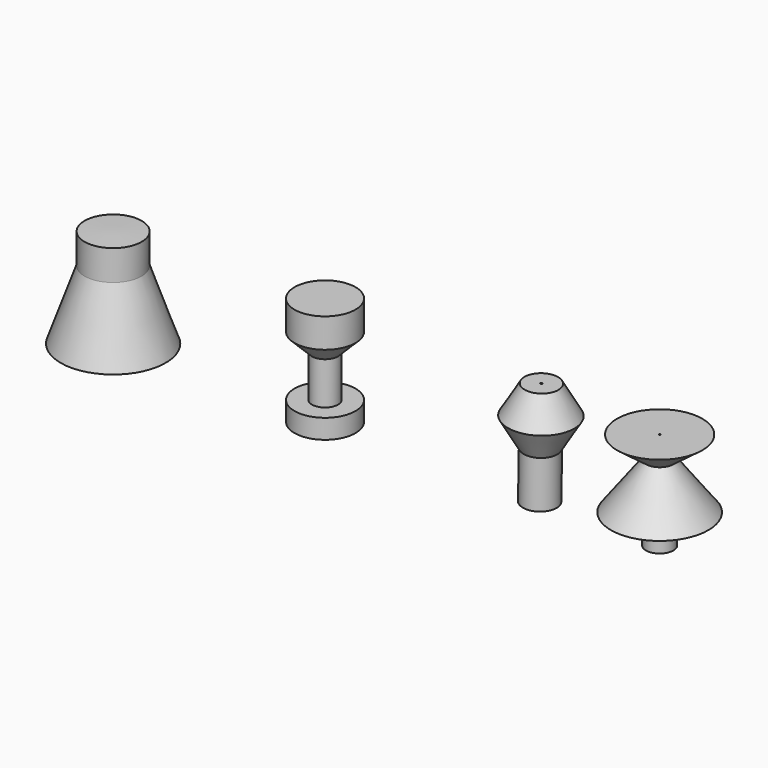
from build123d import *


with BuildPart() as f1:
    # F0 (on Front) → F1 (revolve)
    with BuildSketch(Plane.XZ):
        Polygon((-37.1113449511, 6.7847687659), (-39.479750121, 0), (-34.2881679535, 0), (-34.2881679535, 9.8686974709), (-37.1113449511, 9.7847687659), align=None)
    revolve(axis=Axis((-34.2881679535, 0, 4.9343487355), (0, 0, -1)))


with BuildPart() as f3:
    # F2 (on Front) → F3 (revolve)
    with BuildSketch(Plane.XZ):
        Polygon((-16.3305513561, 1.9204854034), (-16.3305513561, 0), (-13.3122224361, 0), (-13.3122224361, 10.759874247), (-16.3305513561, 10.759874247), (-16.3305513561, 7.8493440524), (-14.6057922393, 6.1245849356), (-14.6057922393, 1.9204854034), align=None)
    revolve(axis=Axis((-13.3122224361, 0, 5.3799371235), (0, 0, -1)))


with BuildPart() as f5:
    # F4 (on Front) → F5 (revolve)
    with BuildSketch(Plane.XZ):
        Polygon((4.756766494, 7.5502431285), (6.3384341868, 4.7010906133), (6.2593507112, 0), (7.9359553222, -0.0282044595), (8.0150387978, 4.6728861538), (8.0150387978, 7.4954312732), (8.0150387978, 10.3175770984), (6.4333711051, 10.3445837884), align=None)
    revolve(axis=Axis((7.97549706, 0, 2.3223408471), (0.0168199881, 0, 0.999858534)))


with BuildPart() as f7:
    # F6 (on Front) → F7 (revolve)
    with BuildSketch(Plane.XZ):
        Polygon((19.8164880276, 7.5182416476), (19.8164880276, 0), (21.1746506393, 0), (21.1746506393, 2.9004893731), (21.1746506393, 7.5182416476), align=None)
        Polygon((21.1746506393, 7.5182416476), (21.1746506393, 2.9004893731), (24.6379654855, 2.9004893731), align=None)
        Polygon((19.8843963444, 9.669571049), (19.8164880276, 7.5182416476), (21.1746506393, 7.5182416476), (24.0430893108, 9.669571049), align=None)
    revolve(axis=Axis((19.8164880276, 0, 3.7591208238), (0, 0, 1)))


solid = Compound([f1.part, f3.part, f5.part, f7.part])
